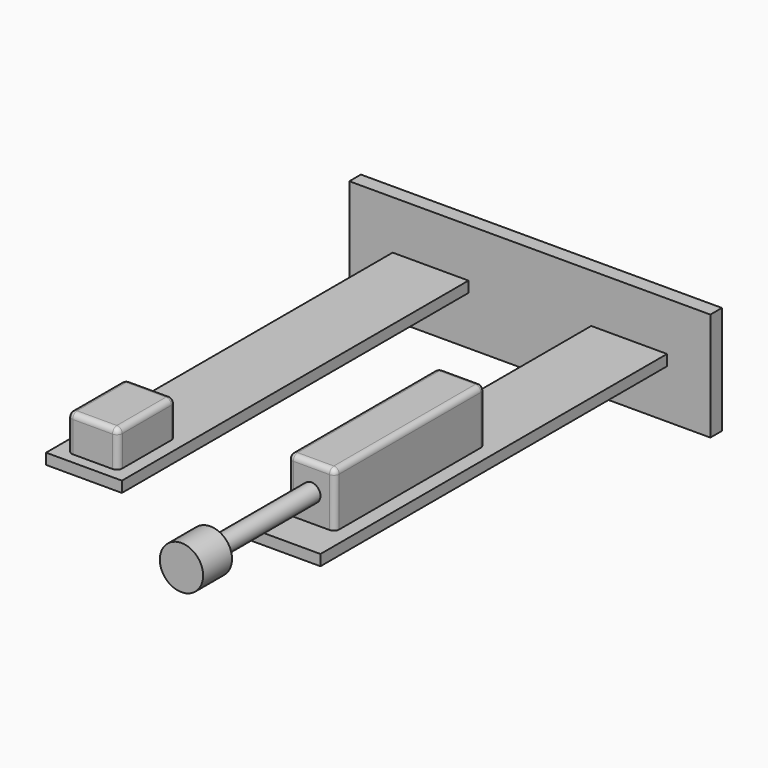
from build123d import *

# Parameters (mm, degrees)
F0_W      = 100
F0_H      = 30
F1_DEPTH  = 4
F2_W      = 21
F2_H      = 3
F3_DEPTH  = 120
F4_W      = 13
F4_H      = 52
F5_DEPTH  = 15
F6_R      = 2.5
F7_DEPTH  = 35
F8_R      = 6
F9_DEPTH  = 10
F10_R     = 1.5
F11_W     = 14
F11_H     = 20
F12_DEPTH = 10
F13_R     = 1.5


with BuildPart() as f1:
    # F0 (on Front) → F1 (new body)
    with BuildSketch(Plane.XZ):
        with Locations((50, 15)):
            Rectangle(F0_W, F0_H)
    extrude(amount=F1_DEPTH)

    # F2 (on face) → F3 (join)
    with BuildSketch(Plane.XZ.offset(4)):
        with Locations((22.5, 15)):
            Rectangle(F2_W, F2_H)
        with Locations((77.5, 15)):
            Rectangle(F2_W, F2_H)
    extrude(amount=F3_DEPTH)


with BuildPart() as f5:
    # F4 (on face) → F5 (new body)
    with BuildSketch(Plane.XY.offset(16.5)):
        with Locations((77.5, -88)):
            Rectangle(F4_W, F4_H)
    extrude(amount=F5_DEPTH)

    # F10
    f10_edges = [f5.edges().sort_by_distance(p)[0] for p in [
        (71, -88, 31.5),
        (77.5, -62, 31.5),
        (77.5, -114, 31.5),
        (84, -88, 31.5),
        (84, -114, 24),
        (71, -114, 24),
        (84, -62, 24),
        (71, -62, 24),
    ]]
    fillet(f10_edges, radius=F10_R)


with BuildPart() as f7:
    # F6 (on face) → F7 (new body)
    with BuildSketch(Plane.XZ.offset(114)):
        with Locations((77.5, 24)):
            Circle(F6_R)
    extrude(amount=F7_DEPTH)


with BuildPart() as f9:
    # F8 (on face) → F9 (new body)
    with BuildSketch(Plane.XZ.offset(149)):
        with Locations((77.5, 24)):
            Circle(F8_R)
    extrude(amount=F9_DEPTH)


with BuildPart() as f12:
    # F11 (on face) → F12 (new body)
    with BuildSketch(Plane.XY.offset(16.5)):
        with Locations((22.5, -111)):
            Rectangle(F11_W, F11_H)
    extrude(amount=F12_DEPTH)

    # F13
    f13_edges = [f12.edges().sort_by_distance(p)[0] for p in [
        (15.5, -111, 26.5),
        (22.5, -121, 26.5),
        (29.5, -111, 26.5),
        (22.5, -101, 26.5),
        (15.5, -121, 21.5),
        (29.5, -121, 21.5),
        (15.5, -101, 21.5),
        (29.5, -101, 21.5),
    ]]
    fillet(f13_edges, radius=F13_R)


solid = Compound([f1.part, f5.part, f7.part, f9.part, f12.part])
